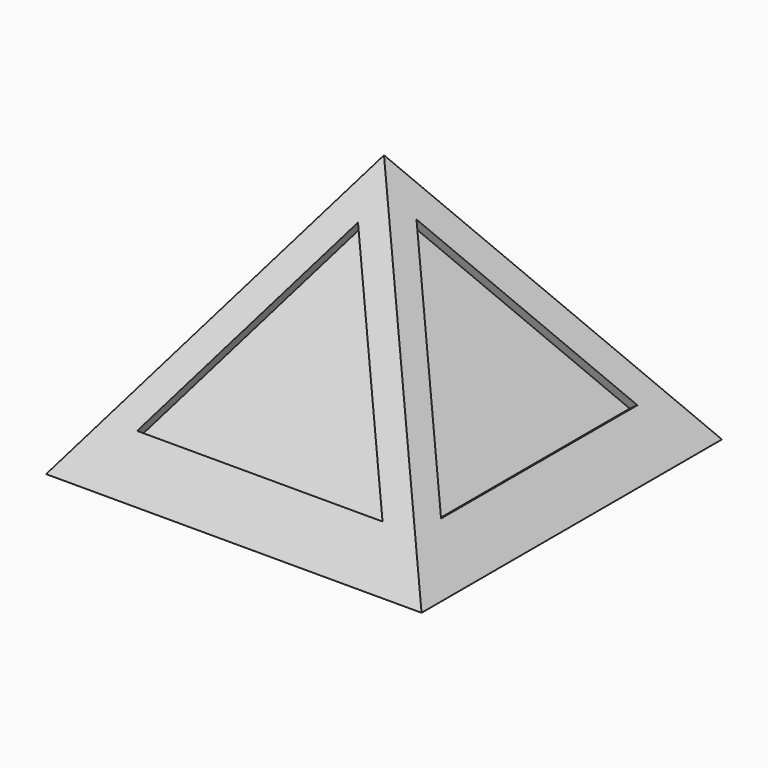
from build123d import *

# Parameters (mm, degrees)
F2_W      = 40
F2_H      = 40
F7_W      = 32
F7_H      = 32
F13_DEPTH = 1
F14_START = -2
F14_DEPTH = 3
F16_DEPTH = 1
F17_START = -2
F17_DEPTH = 3
F19_DEPTH = 1
F20_START = -2
F20_DEPTH = 3
F22_DEPTH = 1
F23_START = -2
F23_DEPTH = 3


with BuildPart() as f5:
    # F2 (on Top) → F5 section 0
    with BuildSketch(Plane.XY, mode=Mode.PRIVATE) as f5_s0:
        Rectangle(F2_W, F2_H)
    loft([f5_s0.sketch, Vertex(0, 0, 28.2842712475)])

    # F7 (on Top) → F9 section 0
    with BuildSketch(Plane.XY, mode=Mode.PRIVATE) as f9_s0:
        Rectangle(F7_W, F7_H)
    loft([f9_s0.sketch, Vertex(0, 0, 22.627416998)], mode=Mode.SUBTRACT)

    # F12 (on offset) → F13 (cut)
    with BuildSketch(Plane(origin=(0, -13.3333333333, 9.4280904158), x_dir=(1, 0, 0), z_dir=(0, -0.8164965809, 0.5773502692))):
        Polygon((13.0717967697, -5.5470053838), (0, 17.0940107676), (-13.0717967697, -5.5470053838), align=None)
    extrude(amount=-F13_DEPTH, mode=Mode.SUBTRACT)

    # F12 (on offset) → F14 (cut)
    with BuildSketch(Plane(origin=(0, -13.3333333333, 9.4280904158), x_dir=(1, 0, 0), z_dir=(0, -0.8164965809, 0.5773502692)).offset(F14_START)):
        Polygon((13.0717967697, -5.5470053838), (0, 17.0940107676), (-13.0717967697, -5.5470053838), align=None)
    extrude(amount=-F14_DEPTH, mode=Mode.SUBTRACT)

    # F15 (on offset) → F16 (cut)
    with BuildSketch(Plane(origin=(-13.3333333333, 0, 9.4280904158), x_dir=(0, -1, 0), z_dir=(-0.8164965809, 0, 0.5773502692))):
        Polygon((13.0717967697, -5.5470053838), (0, 17.0940107676), (-13.0717967697, -5.5470053838), align=None)
    extrude(amount=-F16_DEPTH, mode=Mode.SUBTRACT)

    # F15 (on offset) → F17 (cut)
    with BuildSketch(Plane(origin=(-13.3333333333, 0, 9.4280904158), x_dir=(0, -1, 0), z_dir=(-0.8164965809, 0, 0.5773502692)).offset(F17_START)):
        Polygon((13.0717967697, -5.5470053838), (0, 17.0940107676), (-13.0717967697, -5.5470053838), align=None)
    extrude(amount=-F17_DEPTH, mode=Mode.SUBTRACT)

    # F18 (on face) → F19 (cut)
    with BuildSketch(Plane(origin=(0, 13.3333333333, 9.4280904158), x_dir=(-1, 0, 0), z_dir=(0, 0.8164965809, 0.5773502692))):
        Polygon((13.0717967697, -5.5470053838), (0, 17.0940107676), (-13.0717967697, -5.5470053838), align=None)
    extrude(amount=-F19_DEPTH, mode=Mode.SUBTRACT)

    # F18 (on face) → F20 (cut)
    with BuildSketch(Plane(origin=(0, 13.3333333333, 9.4280904158), x_dir=(-1, 0, 0), z_dir=(0, 0.8164965809, 0.5773502692)).offset(F20_START)):
        Polygon((13.0717967697, -5.5470053838), (0, 17.0940107676), (-13.0717967697, -5.5470053838), align=None)
    extrude(amount=-F20_DEPTH, mode=Mode.SUBTRACT)

    # F21 (on face) → F22 (cut)
    with BuildSketch(Plane(origin=(13.3333333333, 0, 9.4280904158), x_dir=(0, 1, 0), z_dir=(0.8164965809, 0, 0.5773502692))):
        Polygon((13.0717967697, -5.5470053838), (0, 17.0940107676), (-13.0717967697, -5.5470053838), align=None)
    extrude(amount=-F22_DEPTH, mode=Mode.SUBTRACT)

    # F21 (on face) → F23 (cut)
    with BuildSketch(Plane(origin=(13.3333333333, 0, 9.4280904158), x_dir=(0, 1, 0), z_dir=(0.8164965809, 0, 0.5773502692)).offset(F23_START)):
        Polygon((13.0717967697, -5.5470053838), (0, 17.0940107676), (-13.0717967697, -5.5470053838), align=None)
    extrude(amount=-F23_DEPTH, mode=Mode.SUBTRACT)


solid = f5.part
